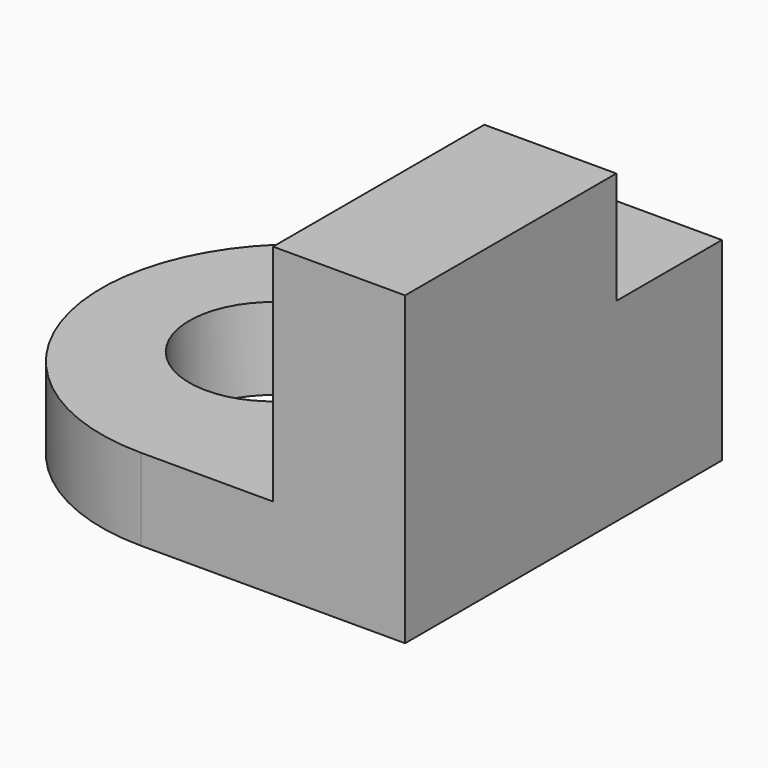
from build123d import *

# Parameters (mm, degrees)
F0_W     = 50.8
F0_H     = 76.2
F1_DEPTH = 15.748
F2_R     = 16.174044
F3_DEPTH = 25.4
F4_W     = 25.4
F4_H     = 76.2
F5_DEPTH = 43.18
F6_W     = 25.4
F6_H     = 25.4
F7_DEPTH = 21.59


with BuildPart() as f1:
    # F0 (on Top) → F1 (new body)
    with BuildSketch(Plane.XY):
        Rectangle(F0_W, F0_H)
        with BuildLine():
            Line((-25.4, -38.1), (-25.4, 38.1))
            ThreePointArc((-25.4, 38.1), (-63.5, 0), (-25.4, -38.1))
        make_face()
    extrude(amount=F1_DEPTH)

    # F2 (on face) → F3 (cut)
    with BuildSketch(Plane.XY.offset(15.748)):
        with Locations((-30.42051, 0)):
            Circle(F2_R)
    extrude(amount=-F3_DEPTH, mode=Mode.SUBTRACT)

    # F4 (on face) → F5 (join)
    with BuildSketch(Plane.XY.offset(15.748)):
        with Locations((12.7, 0)):
            Rectangle(F4_W, F4_H)
    extrude(amount=F5_DEPTH)

    # F6 (on face) → F7 (cut)
    with BuildSketch(Plane.XY.offset(58.928)):
        with Locations((12.7, 25.4)):
            Rectangle(F6_W, F6_H)
    extrude(amount=-F7_DEPTH, mode=Mode.SUBTRACT)


solid = f1.part
